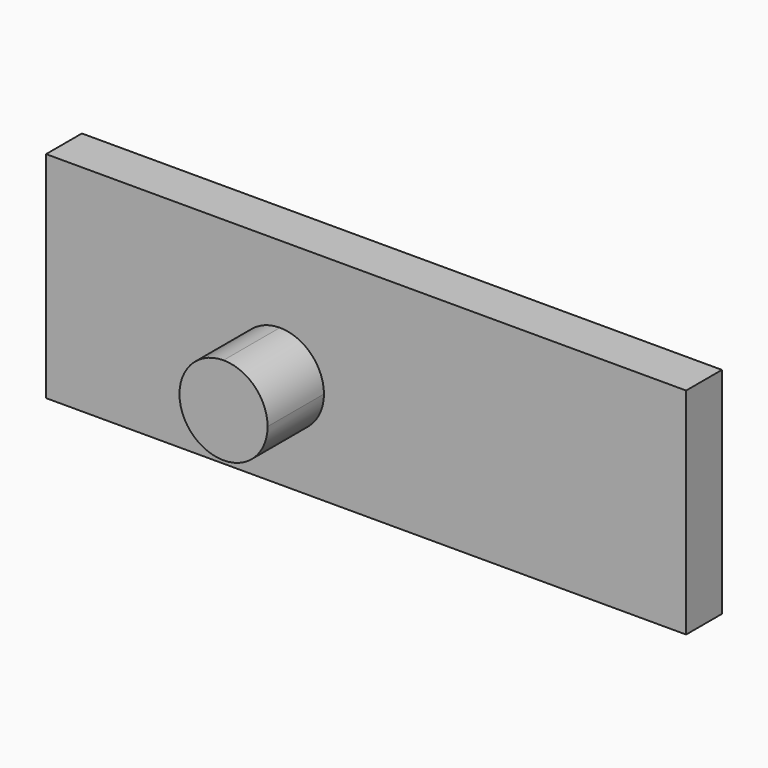
from build123d import *

# Parameters (mm, degrees)
F0_W     = 36.322
F0_H     = 12.192
F1_DEPTH = 2.54
F3_DEPTH = 4


with BuildPart() as f1:
    # F0 (on Front) → F1 (new body)
    with BuildSketch(Plane.XZ):
        Rectangle(F0_W, F0_H)
    extrude(amount=F1_DEPTH)

    # F2 (on face) → F3 (join)
    with BuildSketch(Plane.XZ.offset(2.54)):
        with BuildLine():
            ThreePointArc((-4.891274, 1.738), (-6.659041, 1.005767), (-7.391274, -0.762))
            Line((-7.391274, -0.762), (-4.891274, -0.762))
            Line((-4.891274, -0.762), (-4.891274, 1.738))
        make_face()
        with BuildLine():
            Line((-4.891274, -0.762), (-7.391274, -0.762))
            ThreePointArc((-7.391274, -0.762), (-4.891274, -3.262), (-2.391274, -0.762))
            ThreePointArc((-2.391274, -0.762), (-3.123508, 1.005767), (-4.891274, 1.738))
            Line((-4.891274, 1.738), (-4.891274, -0.762))
        make_face()
    extrude(amount=F3_DEPTH)


solid = f1.part
